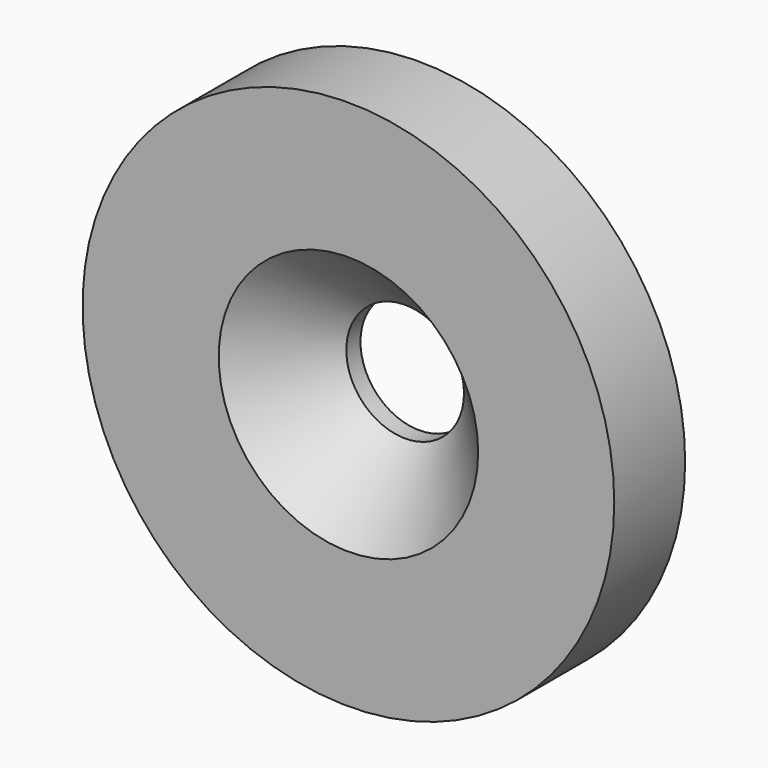
from build123d import *

# Parameters (mm, degrees)
F0_R     = 9.525
F0_R_2   = 2.1082
F1_DEPTH = 3.175
F2_SIZE  = 2.54


with BuildPart() as f1:
    # F0 (on Front) → F1 (new body)
    with BuildSketch(Plane.XZ):
        with Locations((16.580036, 21.116959)):
            Circle(F0_R)
        with Locations((16.580036, 21.116959)):
            Circle(F0_R_2, mode=Mode.SUBTRACT)
    extrude(amount=F1_DEPTH)

    # F2
    f2_edges = [f1.edges().sort_by_distance(p)[0] for p in [
        (14.471836, -3.175, 21.116959),
    ]]
    chamfer(f2_edges, length=F2_SIZE)


solid = f1.part
